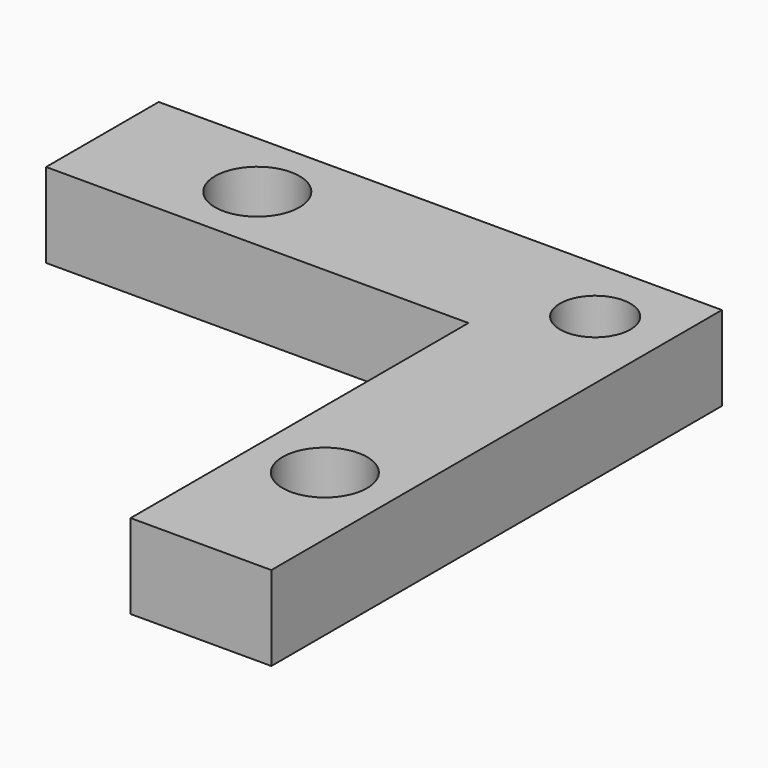
from build123d import *

# Parameters (mm, degrees)
F1_DEPTH       = 3
F2_D           = 3
F3_D           = 2.5
F3_CSINK_D     = 5
F3_CSINK_ANGLE = 90


with BuildPart() as f1:
    # F0 (on Top) → F1 (new body)
    with BuildSketch(Plane.XY):
        Polygon((-4.6546061151, 23.416666063), (-24.6546061151, 23.416666063), (-24.6546061151, 18.416666063), (-9.6546061151, 18.416666063), align=None)
        Polygon((-4.6546061151, 3.416666063), (-4.6546061151, 23.416666063), (-9.6546061151, 18.416666063), (-9.6546061151, 3.416666063), align=None)
    extrude(amount=F1_DEPTH)

    # F2 (through all)
    with Locations(Plane(origin=(0, 0, 0), x_dir=(1, 0, 0), z_dir=(0, 0, -1))):
        with Locations((-7.1546061151, -8.916666063), (-19.1546061151, -20.916666063)):
            Hole(F2_D / 2)

    # F3 (through all)
    with Locations(Plane(origin=(0, 0, 0), x_dir=(1, 0, 0), z_dir=(0, 0, -1))):
        with Locations((-7.1546061151, -20.916666063)):
            CounterSinkHole(F3_D / 2, F3_CSINK_D / 2, counter_sink_angle=F3_CSINK_ANGLE)


solid = f1.part
